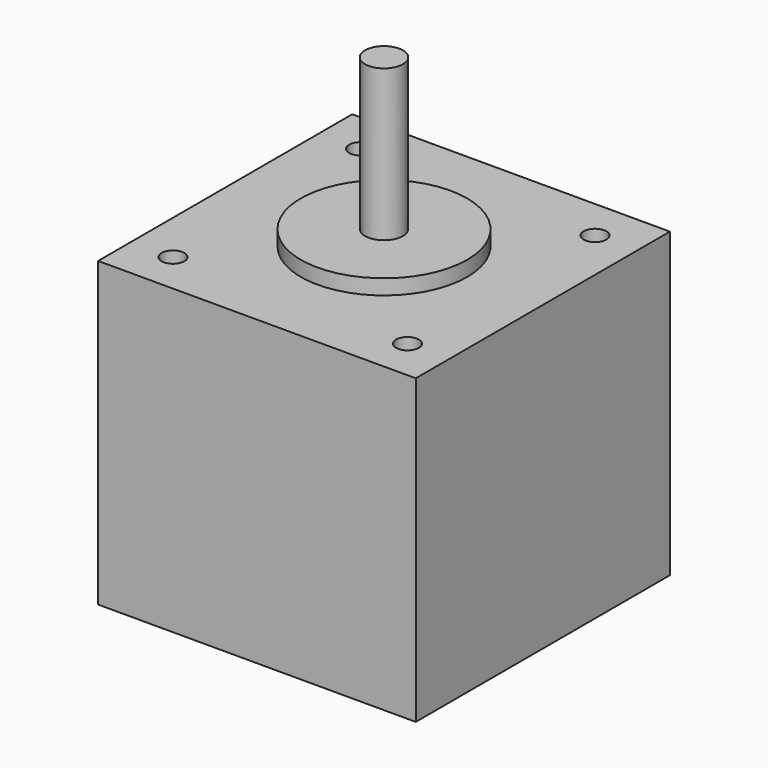
from build123d import *

# Parameters (mm, degrees)
F0_W     = 42
F0_H     = 42
F0_R     = 11
F1_DEPTH = 40
F2_R     = 11
F3_DEPTH = 2
F4_R     = 2.5
F5_DEPTH = 20
F6_R     = 1.5
F7_DEPTH = 40.001


with BuildPart() as f1:
    # F0 (on Top) → F1 (new body)
    with BuildSketch(Plane.XY):
        Rectangle(F0_W, F0_H)
        Circle(F0_R, mode=Mode.SUBTRACT)
        Circle(F0_R)
    extrude(amount=F1_DEPTH)

    # F2 (on face) → F3 (join)
    with BuildSketch(Plane.XY.offset(40)):
        Circle(F2_R)
    extrude(amount=F3_DEPTH)

    # F4 (on face) → F5 (join)
    with BuildSketch(Plane.XY.offset(42)):
        Circle(F4_R)
    extrude(amount=F5_DEPTH)

    # F6 (on face) → F7 (cut, through all)
    with BuildSketch(Plane.XY.offset(40)):
        with Locations((-15.5, 15.5)):
            Circle(F6_R)
        with Locations((15.5, 15.5)):
            Circle(F6_R)
        with Locations((15.5, -15.5)):
            Circle(F6_R)
        with Locations((-15.5, -15.5)):
            Circle(F6_R)
    extrude(amount=-F7_DEPTH, mode=Mode.SUBTRACT)


solid = f1.part
